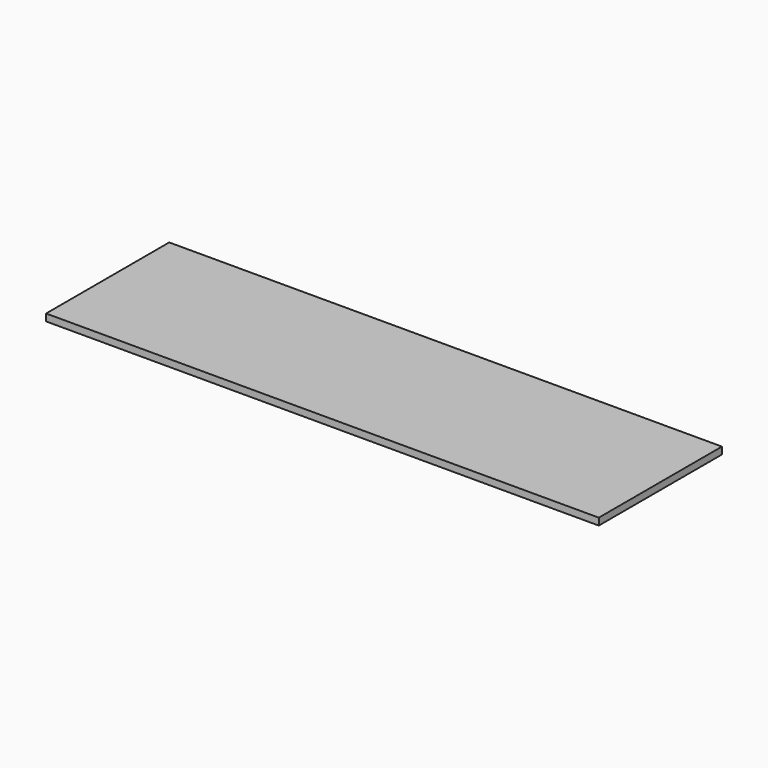
from build123d import *

# Parameters (mm, degrees)
SKETCH004_W = 158
SKETCH004_H = 44
PAD_DEPTH   = 2


with BuildPart() as part:
    # Sketch004 → Pad (new body)
    with BuildSketch(Plane.XY):
        with Locations((79, 22)):
            Rectangle(SKETCH004_W, SKETCH004_H)
    extrude(amount=-PAD_DEPTH)


solid = part.part
